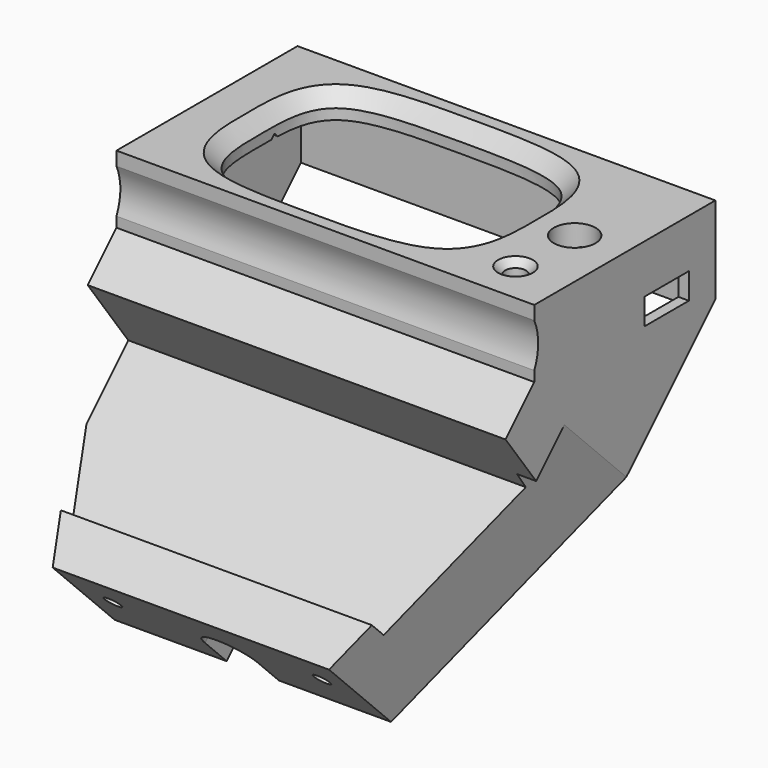
from build123d import *

# Parameters (mm, degrees)
SKETCH_W        = 120
SKETCH_H        = 65
PAD_DEPTH       = 25
SKETCH004_R     = 3
POCKET001_DEPTH = 25.0010001
SKETCH001_R     = 6
POCKET_DEPTH    = 25.0010001
SKETCH005_W     = 114
SKETCH005_H     = 60
POCKET002_DEPTH = 18
CHAMFER_SIZE    = 4
SKETCH006_R     = 3.5
PAD001_DEPTH    = 4.5
SKETCH007_R     = 1.4
POCKET003_DEPTH = 8
SKETCH008_W     = 16
SKETCH008_H     = 6.5
POCKET004_DEPTH = 9
SKETCH009_W     = 28
SKETCH009_H     = 4
POCKET005_DEPTH = 5
PAD002_DEPTH    = 120
SKETCH015_W     = 114
SKETCH015_H     = 60
POCKET006_DEPTH = 18
SKETCH016_W     = 16
SKETCH016_H     = 7.5
POCKET007_DEPTH = 9
CHAMFER001_SIZE = 2
SKETCH041_W     = 114
SKETCH041_H     = 32.987599
POCKET019_DEPTH = 33
SKETCH031_W     = 45
SKETCH031_H     = 51.8302016217
POCKET020_DEPTH = 43
POCKET021_DEPTH = 120.0010001
POCKET022_DEPTH = 65
POCKET023_DEPTH = 5
SKETCH042_R     = 2.35
POCKET024_DEPTH = 10
SKETCH043_R     = 15
POCKET025_DEPTH = 120.0010001
POCKET026_DEPTH = 89.6678389152


with BuildPart() as part:
    # Sketch → Pad (new body)
    with BuildSketch(Plane.XY):
        with Locations((7, 0)):
            Rectangle(SKETCH_W, SKETCH_H)
        with BuildLine():
            add(Edge.make_bspline(
                [(0, 25.0386676667), (-12.5802713333, 25.0386676667), (-37.740814, 25.116003), (-37.5, 0), (-37.740814, -25.116003), (0, -25), (37.740814, -25.116003), (37.5, 0), (37.740814, 25.116003), (12.5802713333, 25.0386676667), (0, 25.0386676667)],
                knots=[0, 0, 0, 0, 0.125, 0.25, 0.375, 0.5, 0.625, 0.75, 0.875, 1, 1, 1, 1], degree=3))
        make_face(mode=Mode.SUBTRACT)
    extrude(amount=PAD_DEPTH)

    # Sketch004 → Pocket001 (cut, through all)
    with BuildSketch(Plane(origin=(0, 0, 0), x_dir=(1, 0, 0), z_dir=(0, 0, -1))):
        with Locations((52, 20.5)):
            Circle(SKETCH004_R)
    extrude(amount=-POCKET001_DEPTH, mode=Mode.SUBTRACT)

    # Sketch001 (on Face5 of Pocket001) → Pocket (cut, through all)
    with BuildSketch(Plane.XY.offset(25)):
        with Locations((53, -0.5)):
            Circle(SKETCH001_R)
    extrude(amount=-POCKET_DEPTH, mode=Mode.SUBTRACT)

    # Sketch005 (on Face4 of Pocket) → Pocket002 (cut)
    with BuildSketch(Plane(origin=(0, 0, 0), x_dir=(1, 0, 0), z_dir=(0, 0, -1))):
        with Locations((7, 0)):
            Rectangle(SKETCH005_W, SKETCH005_H)
    extrude(amount=-POCKET002_DEPTH, mode=Mode.SUBTRACT)

    # Chamfer
    chamfer_edges = [part.edges().sort_by_distance(p)[0] for p in [
        (0, -25.038668, 25),
    ]]
    chamfer(chamfer_edges, length=CHAMFER_SIZE)

    # Sketch006 (on Face11 of Chamfer) → Pad001 (join)
    with BuildSketch(Plane(origin=(0, 0, 18), x_dir=(1, 0, 0), z_dir=(0, 0, -1))):
        with Locations((-45.5, 25)):
            Circle(SKETCH006_R)
        with Locations((-45.5, -25)):
            Circle(SKETCH006_R)
        with Locations((58.5, -25)):
            Circle(SKETCH006_R)
        with Locations((58.5, 25)):
            Circle(SKETCH006_R)
    extrude(amount=PAD001_DEPTH)

    # Sketch007 (on Face22 of Pad001) → Pocket003 (cut)
    with BuildSketch(Plane(origin=(0, 0, 13.5), x_dir=(1, 0, 0), z_dir=(0, 0, -1))):
        with Locations((-45.5, 25)):
            Circle(SKETCH007_R)
        with Locations((58.5, 25)):
            Circle(SKETCH007_R)
        with Locations((58.5, -25)):
            Circle(SKETCH007_R)
        with Locations((-45.5, -25)):
            Circle(SKETCH007_R)
    extrude(amount=-POCKET003_DEPTH, mode=Mode.SUBTRACT)

    # Sketch008 (on Face5 of Pocket003) → Pocket004 (cut)
    with BuildSketch(Plane.YZ.offset(67)):
        with Locations((15, 3.25)):
            Rectangle(SKETCH008_W, SKETCH008_H)
    extrude(amount=-POCKET004_DEPTH, mode=Mode.SUBTRACT)

    # Sketch009 (on Face4 of Pocket004) → Pocket005 (cut)
    with BuildSketch(Plane(origin=(-53, 0, 0), x_dir=(0, -1, 0), z_dir=(-1, 0, 0))):
        with Locations((0, 10.5)):
            Rectangle(SKETCH009_W, SKETCH009_H)
    extrude(amount=-POCKET005_DEPTH, mode=Mode.SUBTRACT)

    # Sketch010 (on Face4 of Pocket005) → Pad002 (join)
    with BuildSketch(Plane(origin=(-53, 0, 0), x_dir=(0, -1, 0), z_dir=(-1, 0, 0))):
        Polygon((-32.5, 0), (49.783008589, -82.283008589), (85.033008589, -47.033008589), (32, 6), (-32.5, 6), align=None)
    extrude(amount=-PAD002_DEPTH)

    # Sketch015 → Pocket006 (cut)
    with BuildSketch(Plane(origin=(0, 0, 13.5), x_dir=(1, 0, 0), z_dir=(0, 0, -1))):
        with Locations((7, 0)):
            Rectangle(SKETCH015_W, SKETCH015_H)
    extrude(amount=POCKET006_DEPTH, mode=Mode.SUBTRACT)

    # Sketch016 (on Face5 of Pocket006) → Pocket007 (cut)
    with BuildSketch(Plane.YZ.offset(67)):
        with Locations((15, 7.25)):
            Rectangle(SKETCH016_W, SKETCH016_H)
    extrude(amount=-POCKET007_DEPTH, mode=Mode.SUBTRACT)

    # Chamfer001
    chamfer001_edges = [part.edges().sort_by_distance(p)[0] for p in [
        (49, -20.5, 25),
    ]]
    chamfer(chamfer001_edges, length=CHAMFER001_SIZE)

    # Sketch041 (on Face23 of Pocket006) → Pocket019 (cut)
    with BuildSketch(Plane(origin=(0, 16.25, -16.25), x_dir=(1, 0, 0), z_dir=(0, 0.7071067812, -0.7071067812))):
        with Locations((7, -0.4937995)):
            Rectangle(SKETCH041_W, SKETCH041_H)
    extrude(amount=-POCKET019_DEPTH, mode=Mode.SUBTRACT)

    # Sketch031 (on Face32 of Pocket019) → Pocket020 (cut)
    with BuildSketch(Plane(origin=(0, 16.25, -16.25), x_dir=(1, 0, 0), z_dir=(0, 0.7071067812, -0.7071067812))):
        with Locations((0, 7.4696755)):
            Rectangle(SKETCH031_W, SKETCH031_H)
    extrude(amount=-POCKET020_DEPTH, mode=Mode.SUBTRACT)

    # Sketch033 → Pocket021 (cut, through all)
    with BuildSketch(Plane(origin=(-53, 0, 0), x_dir=(0, -1, 0), z_dir=(-1, 0, 0))):
        Polygon((72.08519, -60.060139), (62.8928018446, -50.8677508446), (58.6501611575, -55.1103915317), (28.2445695664, -24.7047999407), (69.9604446301, 32.2097871299), (106.7529267672, -43.1300168225), align=None)
    extrude(amount=-POCKET021_DEPTH, mode=Mode.SUBTRACT)

    # Sketch034 (on Face56 of Pocket021) → Pocket022 (cut)
    with BuildSketch(Plane(origin=(0, -66.033008589, -66.033008589), x_dir=(1, 0, 0), z_dir=(0, -0.7071067812, -0.7071067812))):
        with BuildLine():
            ThreePointArc((7.5, -12), (0, -4.5), (-7.5, -12))
            Line((-7.5, -33.2436360908), (-7.5, -12))
            Line((-3.2997664439, -37.4438696468), (-7.5, -33.2436360908))
            Line((3.2997664439, -37.4438696468), (-3.2997664439, -37.4438696468))
            Line((7.5, -33.2436360908), (3.2997664439, -37.4438696468))
            Line((7.5, -33.2436360908), (7.5, -12))
        make_face()
    extrude(amount=-POCKET022_DEPTH, mode=Mode.SUBTRACT)

    # Sketch036 → Pocket023 (cut)
    with BuildSketch(Plane(origin=(0, -29.9248529028, -22.0845953182), x_dir=(1, 0, 0), z_dir=(0, -0.8046099994, -0.5938036282))):
        with BuildLine():
            ThreePointArc((17.25, 3.5), (15.5, 5.25), (13.75, 3.5))
            Line((13.75, 3.5), (13.75, 1.5))
            ThreePointArc((13.75, 1.5), (15.5, -0.25), (17.25, 1.5))
            Line((17.25, 3.5), (17.25, 1.5))
        make_face()
        with BuildLine():
            ThreePointArc((-13.75, 3.5), (-15.5, 5.25), (-17.25, 3.5))
            Line((-17.25, 3.5), (-17.25, 1.5))
            ThreePointArc((-17.25, 1.5), (-15.5, -0.25), (-13.75, 1.5))
            Line((-13.75, 3.5), (-13.75, 1.5))
        make_face()
    extrude(amount=-POCKET023_DEPTH, mode=Mode.SUBTRACT)

    # Sketch042 → Pocket024 (cut)
    with BuildSketch(Plane(origin=(0, -66.033008589, -66.033008589), x_dir=(1, 0, 0), z_dir=(0, -0.7071067812, -0.7071067812))):
        with Locations((-30, -5)):
            Circle(SKETCH042_R)
        with Locations((30, -5)):
            Circle(SKETCH042_R)
    extrude(amount=-POCKET024_DEPTH, mode=Mode.SUBTRACT)

    # Sketch043 → Pocket025 (cut, through all)
    with BuildSketch(Plane(origin=(-53, 0, 0), x_dir=(0, -1, 0), z_dir=(-1, 0, 0))):
        with Locations((46.107452, 14.746502)):
            Circle(SKETCH043_R)
    extrude(amount=-POCKET025_DEPTH, mode=Mode.SUBTRACT)

    # Sketch044 (on Face75 of Pocket025) → Pocket026 (cut, through all)
    with BuildSketch(Plane(origin=(0, -6.0125255, 6.0125255), x_dir=(1, 0, 0), z_dir=(0, -0.7071067812, 0.7071067812))):
        Polygon((75.525253, 0), (35, -105.598799), (-35, -105.598799), (-75.525253, 0), (-103.488983, -26.513087), (-83.230568, -139.492681), (94.225327, -139.492681), align=None)
    extrude(amount=-POCKET026_DEPTH, mode=Mode.SUBTRACT)


solid = part.part
